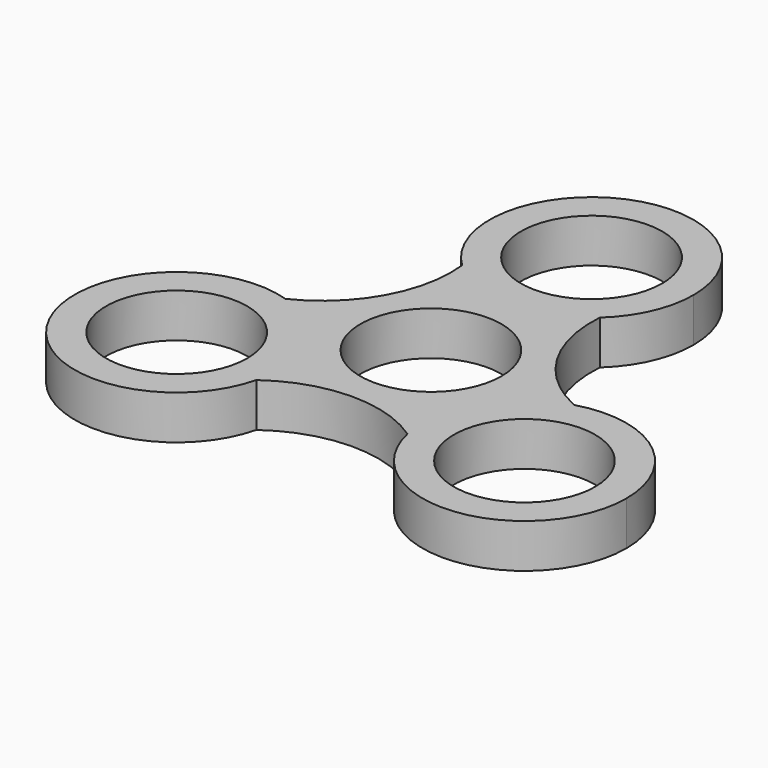
from build123d import *

# Parameters (mm, degrees)
F0_R     = 11.25
F1_DEPTH = 7


with BuildPart() as f1:
    # F0 (on Top) → F1 (new body)
    with BuildSketch(Plane.XY):
        with BuildLine():
            ThreePointArc((-911.060802, 406.806157), (-933.68826, 421.752412), (-938.555022, 395.074575))
            ThreePointArc((-938.555022, 395.074575), (-927.521425, 390.557522), (-916.374451, 394.787059))
            ThreePointArc((-916.374451, 394.787059), (-912.448464, 400.235511), (-911.060802, 406.806157))
        make_face()
        with Locations((-927.310802, 406.806157)):
            Circle(F0_R, mode=Mode.SUBTRACT)
        with BuildLine():
            ThreePointArc((-950.082946, 374.286864), (-941.902099, 368.391997), (-938.773615, 358.806157))
            ThreePointArc((-938.773615, 358.806157), (-938.89105, 356.85607), (-939.241657, 354.934168))
            ThreePointArc((-939.241657, 354.934168), (-927.423679, 358.923807), (-915.475009, 355.344548))
            ThreePointArc((-915.475009, 355.344548), (-913.564408, 367.11288), (-904.135728, 374.409728))
            ThreePointArc((-904.135728, 374.409728), (-913.499845, 382.649578), (-916.374451, 394.787059))
            ThreePointArc((-916.374451, 394.787059), (-927.521425, 390.557522), (-938.555022, 395.074575))
            ThreePointArc((-938.555022, 395.074575), (-941.008882, 382.845087), (-950.082946, 374.286864))
        make_face()
        with Locations((-927.310802, 374.806157)):
            Circle(F0_R, mode=Mode.SUBTRACT)
        with BuildLine():
            ThreePointArc((-904.135728, 374.409728), (-913.564408, 367.11288), (-915.475009, 355.344548))
            ThreePointArc((-915.475009, 355.344548), (-897.857167, 342.649671), (-883.347989, 358.806157))
            ThreePointArc((-883.347989, 358.806157), (-889.842881, 371.802325), (-904.135728, 374.409728))
        make_face()
        with Locations((-899.597989, 358.806157)):
            Circle(F0_R, mode=Mode.SUBTRACT)
        with BuildLine():
            ThreePointArc((-939.241657, 354.934168), (-938.89105, 356.85607), (-938.773615, 358.806157))
            ThreePointArc((-938.773615, 358.806157), (-941.902099, 368.391997), (-950.082946, 374.286864))
            ThreePointArc((-950.082946, 374.286864), (-969.200657, 350.864245), (-939.241657, 354.934168))
        make_face()
        with Locations((-955.023615, 358.806157)):
            Circle(F0_R, mode=Mode.SUBTRACT)
    extrude(amount=F1_DEPTH)


solid = f1.part
